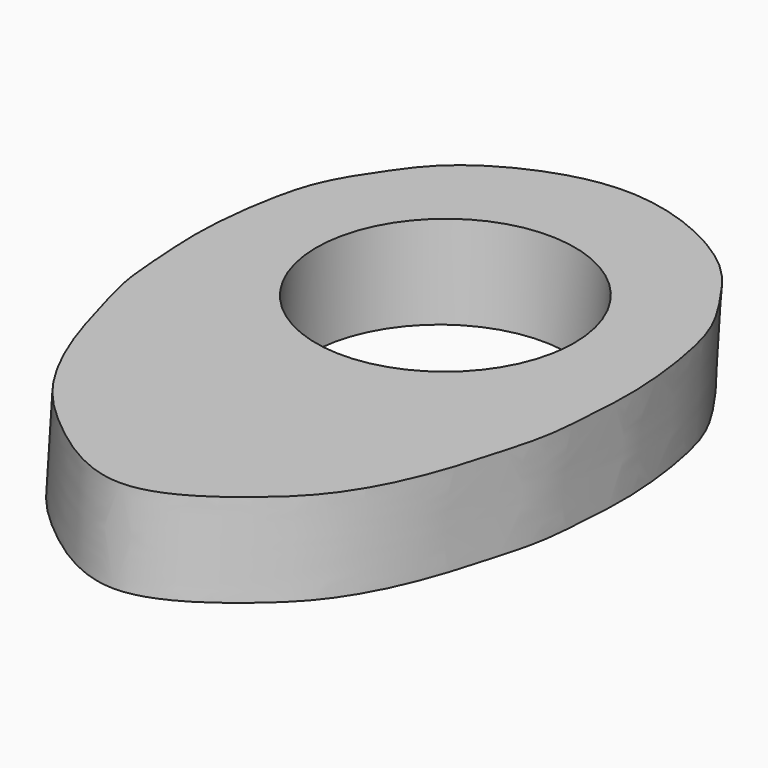
from build123d import *

# Parameters (mm, degrees)
F2_R     = 14.2875
F5_DEPTH = 12.5


with BuildPart() as f4:
    # F4: sweep along a path in F3
    with BuildLine(Plane.YZ) as f4_path:
        Line((45, 0), (45.8715574275, 9.9619469809))
    # F0 (on Top) → F4 (sweep)
    with BuildSketch(Plane.XY):
        with BuildLine():
            add(Edge.make_bspline(
                [(0, 0), (-3.8555140498, 0), (-10.7173845571, 4.8409090616), (-15.5869092714, 9.6597138817), (-18.6255623008, 14.9285915462), (-20.5739837804, 19.9553875511), (-21.9887984541, 24.9901584304), (-23.4360418864, 29.9622928605), (-23.7380203134, 34.9990864807), (-24.1091375899, 39.9982626215), (-23.8247301866, 45.013018771), (-23.082078813, 50.0341936054), (-21.7838938669, 55.1411695469), (-18.3978303144, 60.2021345466), (-14.4280153975, 65.759287658), (0, 72.5352846645), (14.4280153975, 65.759287658), (18.3978303144, 60.2021345466), (21.7838938669, 55.1411695469), (23.082078813, 50.0341936054), (23.8247301866, 45.013018771), (24.1091375899, 39.9982626215), (23.7380203134, 34.9990864807), (23.4360418864, 29.9622928605), (21.9887984541, 24.9901584304), (20.5739837804, 19.9553875511), (18.6255623008, 14.9285915462), (15.5869092714, 9.6597138817), (10.7173845571, 4.8409090616), (3.8555140498, 0), (0, 0)],
                knots=[0, 0, 0, 0, 0.048067267, 0.08554796, 0.119583672, 0.1522924719, 0.1844962435, 0.2164949445, 0.2480908245, 0.2796278848, 0.3111649451, 0.3428581343, 0.3750619059, 0.4090976179, 0.4456545512, 0.5, 0.5543454488, 0.5909023821, 0.6249380941, 0.6571418657, 0.6888350549, 0.7203721152, 0.7519091755, 0.7835050555, 0.8155037565, 0.8477075281, 0.880416328, 0.91445204, 0.951932733, 1, 1, 1, 1], degree=3))
        make_face()
    sweep(path=f4_path.line)

    # F2 (on line) → F5 (cut, symmetric)
    with BuildSketch(Plane(origin=(0, 0.3418255572, 3.9070839975), x_dir=(1, 0, 0), z_dir=(0, 0.0871557427, 0.9961946981))):
        with Locations((0, 44.8287614141)):
            Circle(F2_R)
    extrude(amount=F5_DEPTH, both=True, mode=Mode.SUBTRACT)


solid = f4.part
